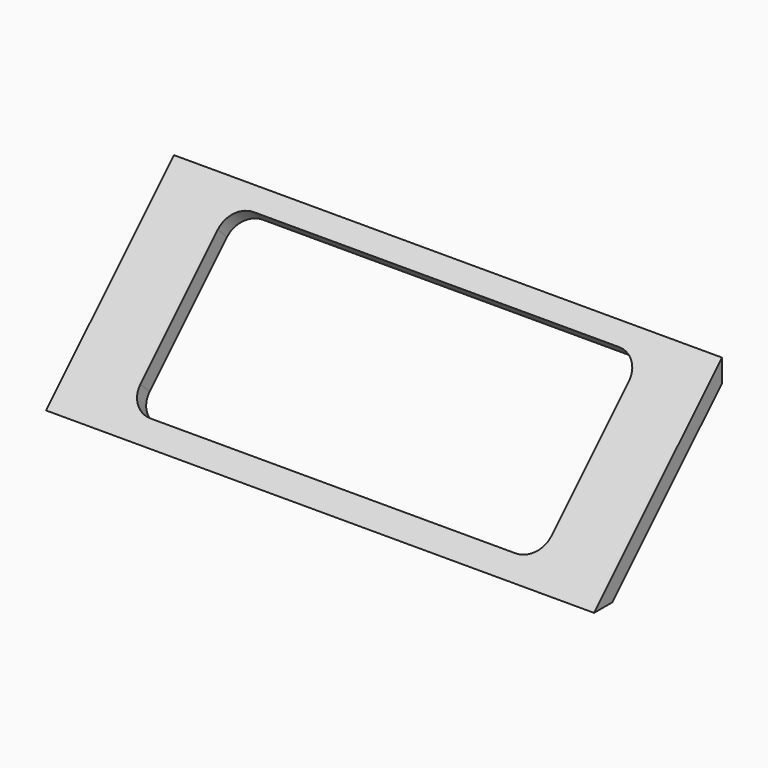
from build123d import *

# Parameters (mm, degrees)
F1_DEPTH = 24
F5_DEPTH = 25


with BuildPart() as f1:
    # F0 (on Right) → F1 (new body)
    with BuildSketch(Plane.YZ):
        Polygon((-6.5, 1.5), (-0.5, 7.5), (-0.5, 8.5), (-7.5, 1.5), align=None)
    extrude(amount=F1_DEPTH)

    # F4 (on offset) → F5 (cut)
    with BuildSketch(Plane(origin=(0, -4.5, 4.5), x_dir=(1, 0, 0), z_dir=(0, -0.7071067812, 0.7071067812))):
        with BuildLine():
            ThreePointArc((21, 3.7573593129), (20.7071067812, 4.4644660941), (20, 4.7573593129))
            Line((20, 4.7573593129), (4, 4.7573593129))
            ThreePointArc((4, 4.7573593129), (3.2928932188, 4.4644660941), (3, 3.7573593129))
            Line((3, 3.7573593129), (3, -2.2426406871))
            ThreePointArc((3, -2.2426406871), (3.2928932188, -2.9497474683), (4, -3.2426406871))
            Line((4, -3.2426406871), (20, -3.2426406871))
            ThreePointArc((20, -3.2426406871), (20.7071067812, -2.9497474683), (21, -2.2426406871))
            Line((21, -2.2426406871), (21, 3.7573593129))
        make_face()
    extrude(amount=-F5_DEPTH, mode=Mode.SUBTRACT)


solid = f1.part
